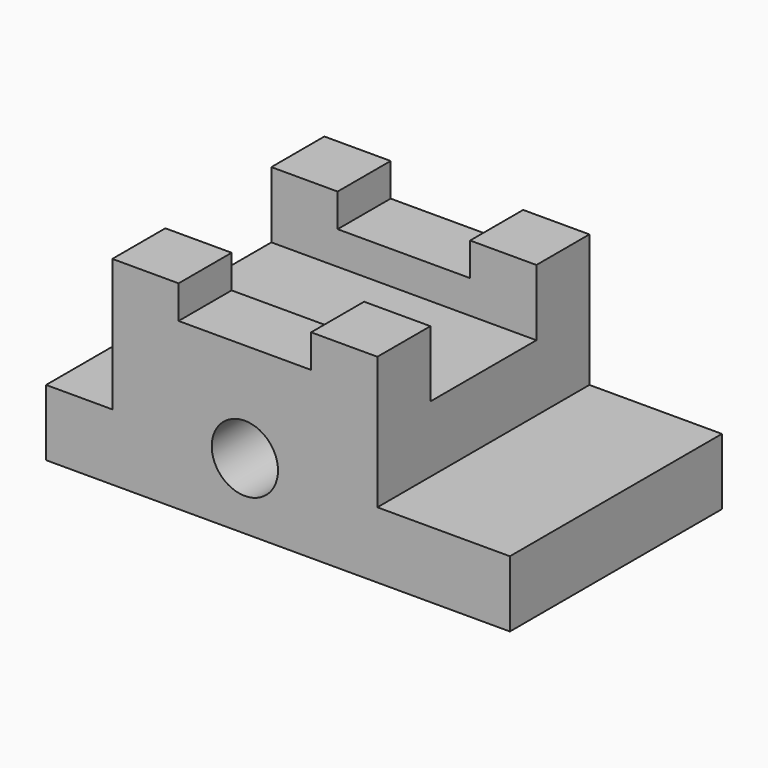
from build123d import *

# Parameters (mm, degrees)
F0_W      = 88.9
F0_H      = 38.1
F1_DEPTH  = 50.8
F2_W      = 12.7
F2_H      = 25.4
F3_DEPTH  = 50.8
F4_W      = 25.4
F4_H      = 6.35
F5_DEPTH  = 50.8
F6_W      = 25.4
F6_H      = 25.4
F7_DEPTH  = 50.8
F8_W      = 25.4
F8_H      = 12.7
F9_DEPTH  = 88.9
F10_R     = 6.35
F11_DEPTH = 50.8


with BuildPart() as f1:
    # F0 (on Front) → F1 (new body)
    with BuildSketch(Plane.XZ):
        with Locations((-0.150394, -8.48194)):
            Rectangle(F0_W, F0_H)
    extrude(amount=F1_DEPTH)

    # F2 (on face) → F3 (cut)
    with BuildSketch(Plane.XZ.offset(50.8)):
        with Locations((-38.250394, -2.13194)):
            Rectangle(F2_W, F2_H)
    extrude(amount=-F3_DEPTH, mode=Mode.SUBTRACT)

    # F4 (on face) → F5 (cut)
    with BuildSketch(Plane.XZ.offset(50.8)):
        with Locations((-6.500394, 7.39306)):
            Rectangle(F4_W, F4_H)
    extrude(amount=-F5_DEPTH, mode=Mode.SUBTRACT)

    # F6 (on face) → F7 (cut)
    with BuildSketch(Plane.XZ.offset(50.8)):
        with Locations((31.599606, -2.13194)):
            Rectangle(F6_W, F6_H)
    extrude(amount=-F7_DEPTH, mode=Mode.SUBTRACT)

    # F8 (on face) → F9 (cut)
    with BuildSketch(Plane.YZ.offset(18.899606)):
        with Locations((-25.4, 4.21806)):
            Rectangle(F8_W, F8_H)
    extrude(amount=-F9_DEPTH, mode=Mode.SUBTRACT)

    # F10 (on face) → F11 (cut)
    with BuildSketch(Plane.XZ.offset(50.8)):
        with Locations((-6.500394, -14.83194)):
            Circle(F10_R)
    extrude(amount=-F11_DEPTH, mode=Mode.SUBTRACT)


solid = f1.part
